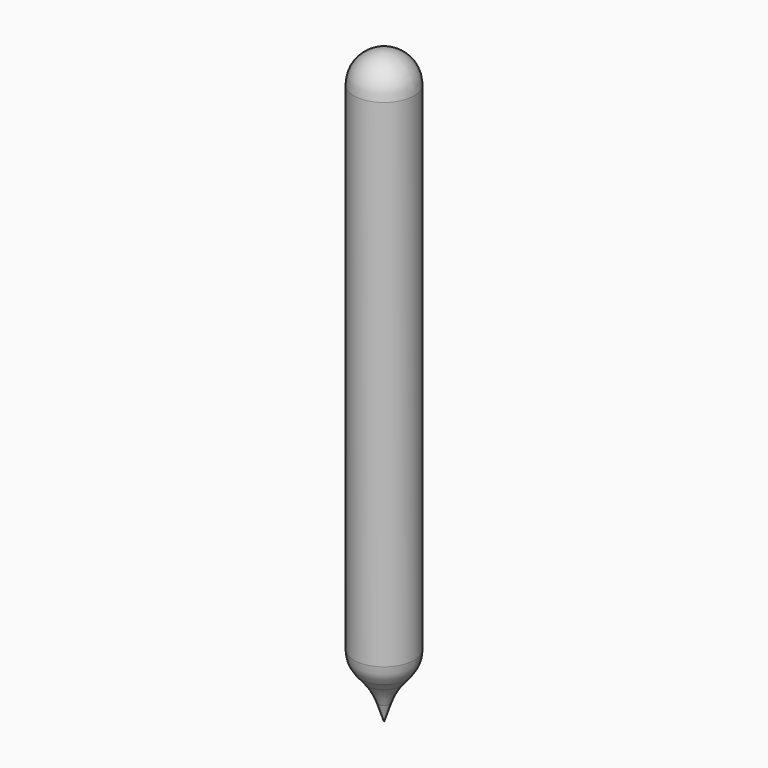
from build123d import *


with BuildPart() as f1:
    # F0 (on Front) → F1 (revolve)
    with BuildSketch(Plane.XZ):
        with BuildLine():
            Line((5, -31.627072), (5, 50.791964))
            ThreePointArc((5, 50.791964), (3.535534, 54.327498), (0, 55.791964))
            Line((0, 55.791964), (0, -42.263276))
            Line((0, -42.263276), (0.964687, -39.368953))
            ThreePointArc((0.964687, -39.368953), (1.701976, -37.689076), (2.73374, -36.172156))
            Line((2.73374, -36.172156), (3.858933, -34.80648))
            ThreePointArc((3.858933, -34.80648), (4.706095, -33.316056), (5, -31.627072))
        make_face()
    revolve(axis=Axis((0, 0, 6.764344), (0, 0, -1)))


solid = f1.part
